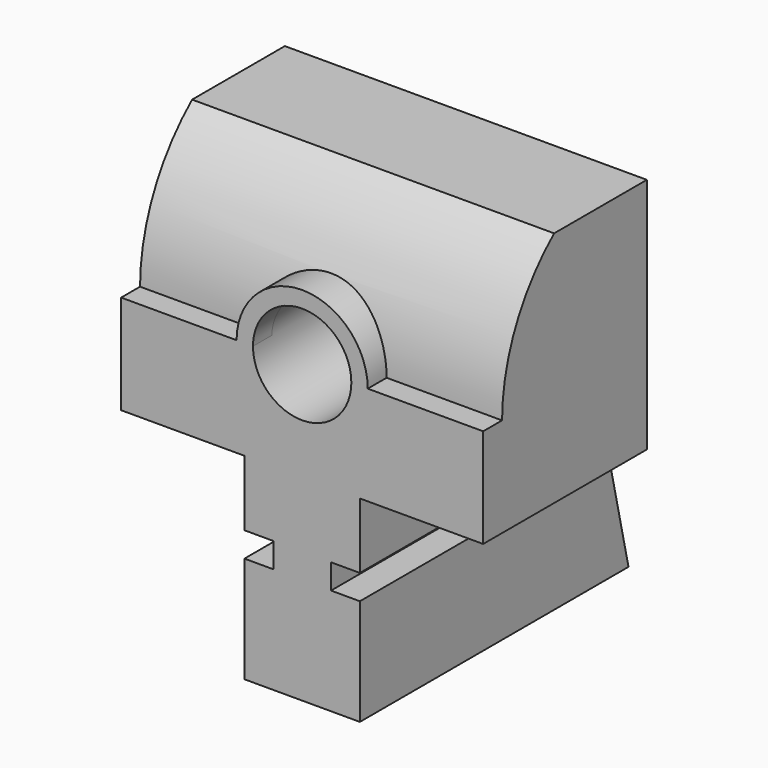
from build123d import *

# Parameters (mm, degrees)
F0_W          = 65.024
F0_H          = 84.074
F1_DEPTH      = 35.052
F1_DEPTH_BACK = 35.052
F2_W          = 5.588
F2_H          = 4.826
F3_DEPTH      = 65.025
F4_W          = 56.330337
F4_H          = 68.819438
F5_DEPTH      = 101.6
F7_DEPTH      = 46.229
F9_DEPTH      = 254
F11_DEPTH     = 25.4
F12_DEPTH     = 65.025


with BuildPart() as f1:
    # F0 (on Right) → F1 (new body, two sides)
    with BuildSketch(Plane.YZ) as f1_sk:
        Rectangle(F0_W, F0_H)
    extrude(amount=F1_DEPTH)
    extrude(f1_sk.sketch, amount=-F1_DEPTH_BACK)

    # F2 (on face) → F3 (cut, through all)
    with BuildSketch(Plane.XZ.offset(32.512)):
        Polygon((-11.176, -16.637), (-11.176, -3.937), (-74.27659, -3.937), (-74.27659, -51.014846), (-11.176, -51.014846), (-11.176, -21.463), (-5.588, -21.463), (-5.588, -16.637), align=None)
        Polygon((76.810068, -3.937), (11.176, -3.937), (11.176, -16.637), (11.176, -21.463), (11.176, -65.525395), (76.810068, -65.525395), align=None)
        with Locations((8.382, -19.05)):
            Rectangle(F2_W, F2_H)
    extrude(amount=-F3_DEPTH, mode=Mode.SUBTRACT)

    # F4 (on face) → F5 (cut, symmetric)
    with BuildSketch(Plane.YZ.offset(35.052)):
        with Locations((35.277168, 27.424719)):
            Rectangle(F4_W, F4_H)
    extrude(amount=F5_DEPTH, both=True, mode=Mode.SUBTRACT)

    # F6 (on face) → F7 (cut, through all)
    with BuildSketch(Plane.YZ.offset(11.176)):
        Polygon((22.86, 0), (32.512, -42.037), (45.35326, -62.610321), (51.058073, 0), align=None)
    extrude(amount=-F7_DEPTH, mode=Mode.SUBTRACT)

    # F8 (on Right) → F9 (cut, symmetric)
    with BuildSketch(Plane.YZ):
        with BuildLine():
            ThreePointArc((-27.93964, 15.271957), (-17.603329, 39.968487), (7.151257, 50.164978))
            Line((7.151257, 50.164978), (-49.631871, 54.338343))
            Line((-49.631871, 54.338343), (-51.628556, 15.271957))
            Line((-51.628556, 15.271957), (-27.93964, 15.271957))
        make_face()
    extrude(amount=F9_DEPTH, both=True, mode=Mode.SUBTRACT)

    # F10 (on face) → F11 (join)
    with BuildSketch(Plane.XZ.offset(32.512)):
        with BuildLine():
            Line((9.525, 15.271957), (12.7, 15.271957))
            ThreePointArc((12.7, 15.271957), (0, 27.971957), (-12.7, 15.271957))
            Line((-12.7, 15.271957), (-9.525, 15.271957))
            ThreePointArc((-9.525, 15.271957), (0, 24.796957), (9.525, 15.271957))
        make_face()
        with BuildLine():
            ThreePointArc((-12.7, 15.271957), (0, 2.571957), (12.7, 15.271957))
            Line((12.7, 15.271957), (9.525, 15.271957))
            ThreePointArc((9.525, 15.271957), (0, 5.746957), (-9.525, 15.271957))
            Line((-9.525, 15.271957), (-12.7, 15.271957))
        make_face()
    extrude(amount=-F11_DEPTH)

    # F10 (on face) → F12 (cut, through all)
    with BuildSketch(Plane.XZ.offset(32.512)):
        with BuildLine():
            Line((-9.525, 15.271957), (9.525, 15.271957))
            ThreePointArc((9.525, 15.271957), (0, 24.796957), (-9.525, 15.271957))
        make_face()
        with BuildLine():
            ThreePointArc((-9.525, 15.271957), (0, 5.746957), (9.525, 15.271957))
            Line((9.525, 15.271957), (-9.525, 15.271957))
        make_face()
    extrude(amount=-F12_DEPTH, mode=Mode.SUBTRACT)


solid = f1.part
